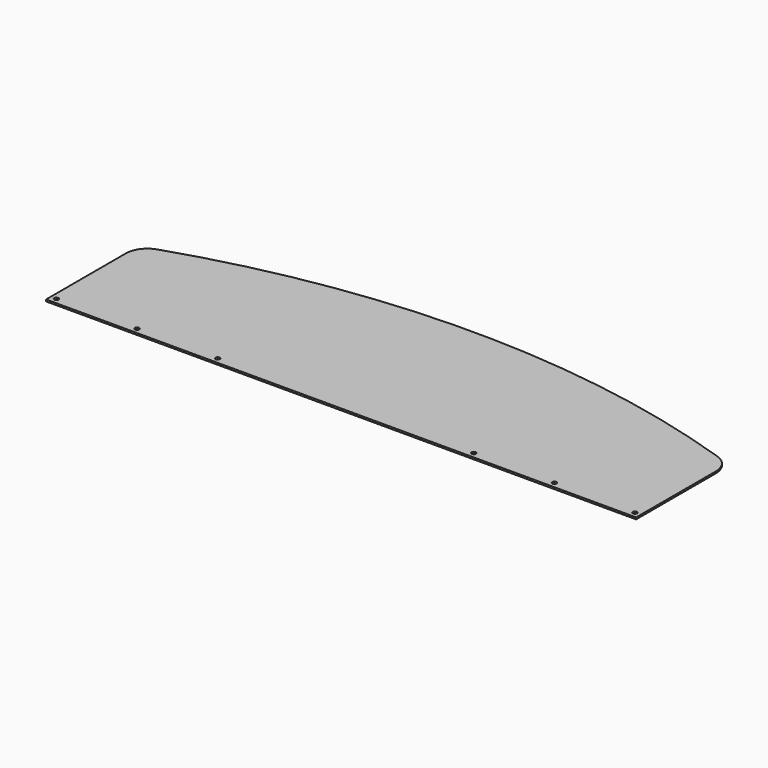
from build123d import *

# Parameters (mm, degrees)
F1_DEPTH = 3.175
F2_R     = 3.81
F3_DEPTH = 25.4


with BuildPart() as f1:
    # F0 (on Top) → F1 (new body)
    with BuildSketch(Plane.XY):
        with BuildLine():
            Line((-515.62, 0), (0, 0))
            Line((0, 0), (515.62, 0))
            Line((515.62, 0), (520.7, 0))
            Line((520.7, 0), (520.7, 5.08))
            Line((520.7, 5.08), (520.7, 175.961931))
            ThreePointArc((520.7, 175.961931), (513.495857, 198.256685), (494.60782, 212.120226))
            ThreePointArc((494.60782, 212.120226), (0, 292.1), (-494.60782, 212.120226))
            ThreePointArc((-494.60782, 212.120226), (-513.495857, 198.256685), (-520.7, 175.961931))
            Line((-520.7, 175.961931), (-520.7, 5.08))
            Line((-520.7, 5.08), (-520.7, 0))
            Line((-520.7, 0), (-515.62, 0))
        make_face()
    extrude(amount=F1_DEPTH)

    # F2 (on face) → F3 (cut)
    with BuildSketch(Plane.XY.offset(3.175)):
        with Locations((510.54, 10.16)):
            Circle(F2_R)
        with Locations((368.3, 10.16)):
            Circle(F2_R)
        with Locations((226.06, 10.16)):
            Circle(F2_R)
        with Locations((-226.06, 10.16)):
            Circle(F2_R)
        with Locations((-368.3, 10.16)):
            Circle(F2_R)
        with Locations((-510.54, 10.16)):
            Circle(F2_R)
    extrude(amount=-F3_DEPTH, mode=Mode.SUBTRACT)


solid = f1.part
